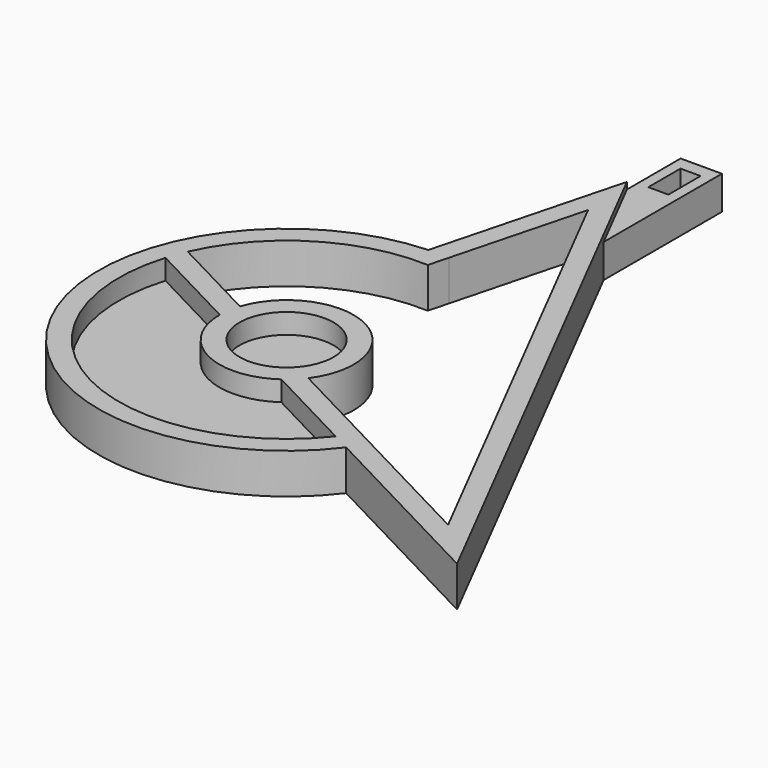
from build123d import *

# Parameters (mm, degrees)
F0_R     = 3.5
F1_DEPTH = 3
F2_DEPTH = 1.5
F3_DEPTH = 2.5
F4_W     = 1.5
F4_H     = 3
F5_DEPTH = 25
F6_ANGLE = 90


with BuildPart() as f1:
    # F0 (on Front) → F1 (new body)
    with BuildSketch(Plane.XZ):
        with BuildLine():
            ThreePointArc((5.0689673904, 14.5063923622), (-18.497586517, 12.604527099), (-6.7371360863, -7.9062349594))
            Line((-6.7371360863, -7.9062349594), (-3.0749836005, -21.8287352473))
            Line((-3.0749836005, -21.8287352473), (0, -15.8073518255))
            Line((0, -15.8073518255), (19.2700356521, 21.9269220071))
            Line((19.2700356521, 21.9269220071), (5.0689673904, 14.5063923622))
        make_face()
        with BuildLine():
            ThreePointArc((-5.5799534775, -6.4089575685), (-12.6983133538, -4.5436790019), (-17.5337629503, 1.0032786019))
            Line((-17.5337629503, 1.0032786019), (-10.852955333, 4.494222386))
            ThreePointArc((-10.852955333, 4.494222386), (-3.7954106953, 1.6482764037), (-2.1015582996, 9.067117884))
            Line((-2.1015582996, 9.067117884), (4.5792493177, 12.5580616681))
            Line((4.5792493177, 12.5580616681), (15.7938726924, 18.418074709))
            Line((15.7938726924, 18.418074709), (2.0825346023, -8.431246976))
            Line((2.0825346023, -8.431246976), (-1.7794150282, -15.9936546184))
            Line((-1.7794150282, -15.9936546184), (-2.6238568394, -17.6472269892))
            Line((-2.6238568394, -17.6472269892), (-5.1903976779, -7.8899419766))
            Line((-5.1903976779, -7.8899419766), (-5.5799534775, -6.4089575685))
        make_face(mode=Mode.SUBTRACT)
        with Locations((-6.1110062525, 6.0797566548)):
            Circle(F0_R, mode=Mode.SUBTRACT)
        with BuildLine():
            Line((-11.1109284274, 6.0518596218), (-18.0629985994, 2.4191721469))
            ThreePointArc((-18.0629985994, 2.4191721469), (-11.8999951454, 17.1584572825), (3.7191276324, 13.8010562737))
            Line((3.7191276324, 13.8010562737), (-3.2329425395, 10.1683687988))
            ThreePointArc((-3.2329425395, 10.1683687988), (-8.4266018096, 10.5112369059), (-11.1109284274, 6.0518596218))
        make_face(mode=Mode.SUBTRACT)
    extrude(amount=-F1_DEPTH)

    # F0 (on Front) → F2 (join)
    with BuildSketch(Plane.XZ):
        with BuildLine():
            ThreePointArc((3.7191276324, 13.8010562737), (-11.8999951454, 17.1584572825), (-18.0629985994, 2.4191721469))
            Line((-18.0629985994, 2.4191721469), (-11.1109284274, 6.0518596218))
            ThreePointArc((-11.1109284274, 6.0518596218), (-8.4266018096, 10.5112369059), (-3.2329425395, 10.1683687988))
            Line((-3.2329425395, 10.1683687988), (3.7191276324, 13.8010562737))
        make_face()
        with Locations((-6.1110062525, 6.0797566548)):
            Circle(F0_R)
    extrude(amount=-F2_DEPTH)

    # F0 (on Front) → F3 (join)
    with BuildSketch(Plane.XZ):
        Polygon((0, -15.8073518255), (-3.0749836005, -21.8287352473), (-3.0749836005, -26.8287352473), (0, -26.8287352473), align=None)
    extrude(amount=-F3_DEPTH)

    # F4 (on face) → F5 (cut)
    with BuildSketch(Plane(origin=(0, 2.5, 0), x_dir=(-1, 0, 0), z_dir=(0, 1, 0))):
        with Locations((1.5374918003, -24.3287352473)):
            Rectangle(F4_W, F4_H)
    extrude(amount=-F5_DEPTH, mode=Mode.SUBTRACT)


with BuildPart() as f1_1:
    # F6: moved
    add(f1.part.rotate(Axis((-1.5374918003, 0, -26.8287352473), (1, 0, 0)), F6_ANGLE))


solid = f1_1.part
